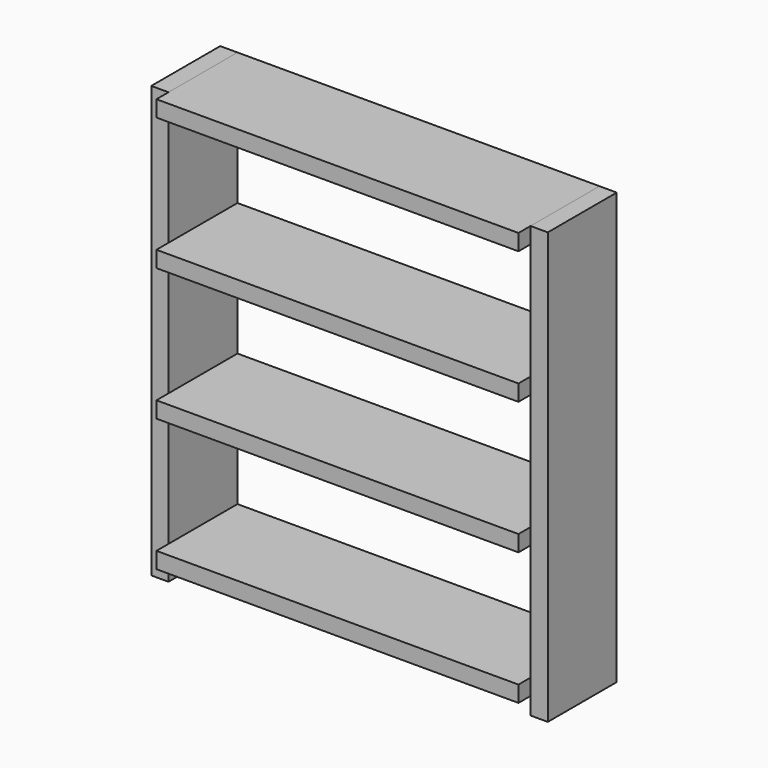
from build123d import *

# Parameters (mm, degrees)
F1_DEPTH = 254
F0_W     = 1066.8
F0_H     = 47.625
F2_DEPTH = 298.45


with BuildPart() as f1:
    # F0 (on Front) → F1 (new body)
    with BuildSketch(Plane.XZ):
        Polygon((50.8, 1066.8), (0, 1066.8), (0, -203.2), (50.8, -203.2), (50.8, -152.4), (50.8, -104.775), (50.8, 238.125), (50.8, 285.75), (50.8, 628.65), (50.8, 676.275), (50.8, 1019.175), align=None)
        Polygon((1168.4, 1066.8), (1117.6, 1066.8), (1117.6, 1019.175), (1117.6, 676.275), (1117.6, 628.65), (1117.6, 285.75), (1117.6, 238.125), (1117.6, -104.775), (1117.6, -152.4), (1117.6, -203.2), (1168.4, -203.2), align=None)
    extrude(amount=F1_DEPTH)


with BuildPart() as f2:
    # F0 (on Front) → F2 (new body)
    with BuildSketch(Plane.XZ):
        with Locations((584.2, 1042.9875)):
            Rectangle(F0_W, F0_H)
        with Locations((584.2, 652.4625)):
            Rectangle(F0_W, F0_H)
        with Locations((584.2, 261.9375)):
            Rectangle(F0_W, F0_H)
        with Locations((584.2, -128.5875)):
            Rectangle(F0_W, F0_H)
    extrude(amount=F2_DEPTH)


solid = Compound([f1.part, f2.part])
